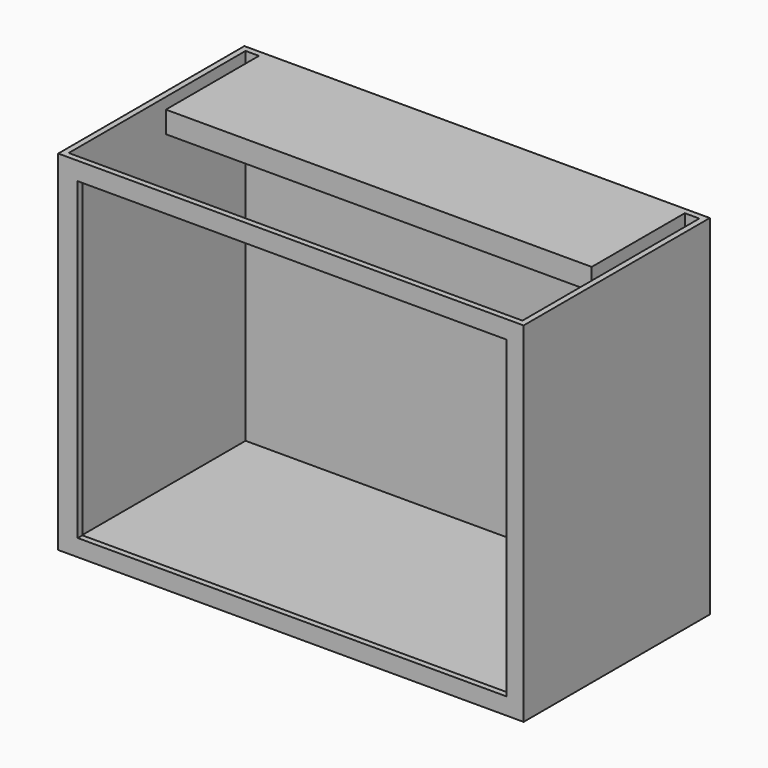
from build123d import *

# Parameters (mm, degrees)
F0_W     = 200
F0_H     = 100
F1_DEPTH = 150
F2_T     = -2.5
F3_W     = 184.218731
F3_H     = 135
F4_DEPTH = 25
F5_W     = 56.715606
F5_H     = 4.201159
F6_DEPTH = 5
F7_W     = 183.008641
F7_H     = 9.313712
F8_DEPTH = 50


with BuildPart() as f1:
    # F0 (on Top) → F1 (new body)
    with BuildSketch(Plane.XY):
        Rectangle(F0_W, F0_H)
    extrude(amount=F1_DEPTH)

    # F2
    f2_openings = [f1.faces().sort_by_distance(p)[0] for p in [
        (0, 0, 150),
    ]]
    offset(amount=F2_T, openings=f2_openings)

    # F3 (on face) → F4 (cut)
    with BuildSketch(Plane.XZ.offset(50)):
        with Locations((0.479073, 74.760462)):
            Rectangle(F3_W, F3_H)
    extrude(amount=-F4_DEPTH, mode=Mode.SUBTRACT)

    # F5 (on face) → F6 (join)
    with BuildSketch(Plane(origin=(97.5, 0, 0), x_dir=(0, -1, 0), z_dir=(-1, 0, 0))):
        with Locations((-13.760083, 93.328818)):
            Rectangle(F5_W, F5_H)
    extrude(amount=F6_DEPTH)

    # F7 (on face) → F8 (join)
    with BuildSketch(Plane.XZ.offset(-47.5)):
        with Locations((-0.239544, 145.343144)):
            Rectangle(F7_W, F7_H)
    extrude(amount=F8_DEPTH)


solid = f1.part
